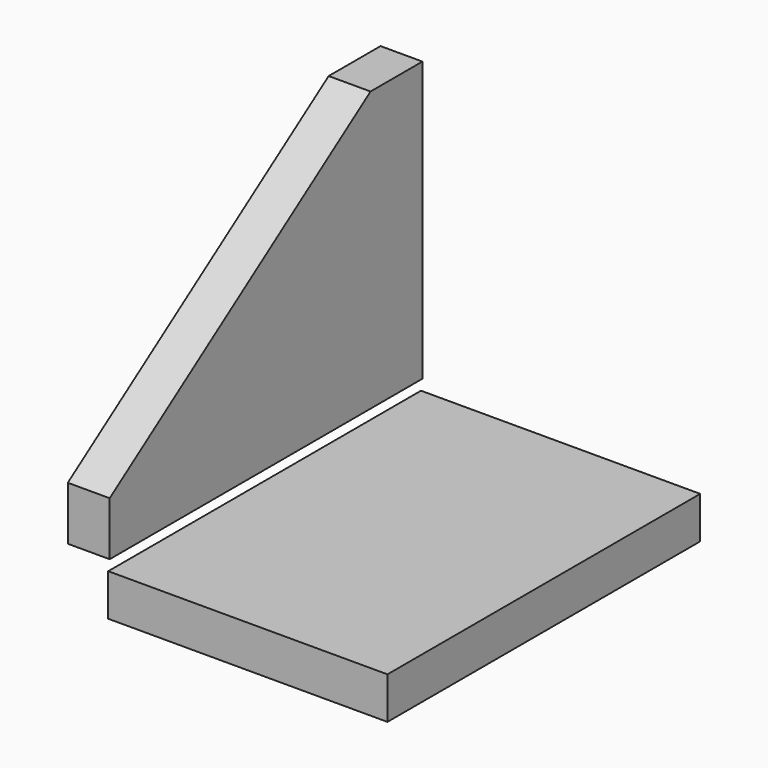
from build123d import *

# Parameters (mm, degrees)
F0_W       = 127
F0_H       = 177.8
F1_DEPTH   = 19.05
F2_W       = 177.8
F2_H       = 127
F3_DEPTH   = 19.05
F3_FACE1_W = 177.8
F3_FACE1_H = 127
F5_DEPTH   = 25.4


with BuildPart() as f1:
    # F0 (on Top) → F1 (new body)
    with BuildSketch(Plane.XY):
        with Locations((63.5, 88.9)):
            Rectangle(F0_W, F0_H)
    extrude(amount=F1_DEPTH)


with BuildPart() as f3:
    # F2 (on Right) → F3 (new body)
    with BuildSketch(Plane.YZ):
        with Locations((65.9087030217, 102.8793881302)):
            Rectangle(F2_W, F2_H)
    extrude(amount=F3_DEPTH)

    # F4 (on face) + F3_face1 (on face) → F5 (cut)
    with BuildSketch(Plane.YZ.offset(19.05)):
        Polygon((-22.9912969783, 63.8163983822), (125.3091990948, 166.3793881302), (-22.9912969783, 166.3793881302), align=None)
    with BuildSketch(Plane(origin=(0, 65.9087030217, 102.8793881302), x_dir=(0, 1, 0), z_dir=(-1, 0, 0))):
        Rectangle(F3_FACE1_W, F3_FACE1_H)
    extrude(amount=-F5_DEPTH, dir=(1, 0, 0), mode=Mode.SUBTRACT)


solid = Compound([f1.part, f3.part])
